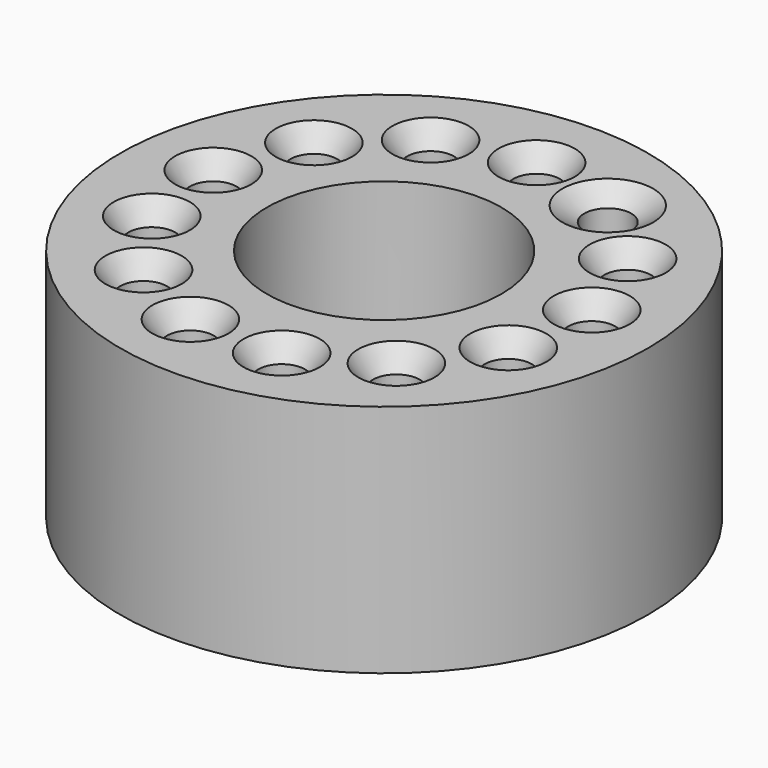
from build123d import *

# Parameters (mm, degrees)
SKETCH_R           = 9
SKETCH_R_2         = 0.8
SKETCH_R_3         = 4
EXTRUDE_DEPTH      = 8
CHAMFER_1_SIZE2    = 0.75
CHAMFER_1_SIZE     = 2
CHAMFER_2_SIZE2    = 0.75
CHAMFER_2_SIZE     = 2
CHAMFER_3_SIZE2    = 0.75
CHAMFER_3_SIZE     = 2
CHAMFER_4_SIZE2    = 0.75
CHAMFER_4_SIZE     = 2
CHAMFER_5_SIZE2    = 0.75
CHAMFER_5_SIZE     = 2
CHAMFER_6_SIZE2    = 0.75
CHAMFER_6_SIZE     = 2
CHAMFER_7_SIZE2    = 0.75
CHAMFER_7_SIZE     = 2
CHAMFER_8_SIZE2    = 0.75
CHAMFER_8_SIZE     = 2
CHAMFER_9_SIZE2    = 0.75
CHAMFER_9_SIZE     = 2
CHAMFER_10_SIZE2   = 0.75
CHAMFER_10_SIZE    = 2
CHAMFER_11_SIZE2   = 0.75
CHAMFER_11_SIZE    = 2
CHAMFER_12_SIZE2   = 0.75
CHAMFER_12_SIZE    = 2
CHAMFER_13_SIZE2   = 0.75
CHAMFER_13_SIZE    = 2
CHAMFER001_1_SIZE2 = 0.75
CHAMFER001_1_SIZE  = 0.5
CHAMFER001_2_SIZE2 = 0.75
CHAMFER001_2_SIZE  = 0.5


with BuildPart() as part:
    # Sketch → Extrude (new body)
    with BuildSketch(Plane.XY):
        Circle(SKETCH_R)
        with Locations((-3.020701, 5.755464)):
            Circle(SKETCH_R_2, mode=Mode.SUBTRACT)
        with Locations((-5.349395, 3.692421)):
            Circle(SKETCH_R_2, mode=Mode.SUBTRACT)
        with Locations((-6.452608, 0.783488)):
            Circle(SKETCH_R_2, mode=Mode.SUBTRACT)
        with Locations((-6.077606, -2.304932)):
            Circle(SKETCH_R_2, mode=Mode.SUBTRACT)
        with Locations((-4.310297, -4.86532)):
            Circle(SKETCH_R_2, mode=Mode.SUBTRACT)
        with Locations((-1.555552, -6.311122)):
            Circle(SKETCH_R_2, mode=Mode.SUBTRACT)
        with Locations((1.555552, -6.311122)):
            Circle(SKETCH_R_2, mode=Mode.SUBTRACT)
        with Locations((4.310297, -4.86532)):
            Circle(SKETCH_R_2, mode=Mode.SUBTRACT)
        with Locations((6.077606, -2.304932)):
            Circle(SKETCH_R_2, mode=Mode.SUBTRACT)
        with Locations((6.452608, 0.783488)):
            Circle(SKETCH_R_2, mode=Mode.SUBTRACT)
        with Locations((5.349395, 3.692421)):
            Circle(SKETCH_R_2, mode=Mode.SUBTRACT)
        with Locations((3.020701, 5.755464)):
            Circle(SKETCH_R_2, mode=Mode.SUBTRACT)
        with Locations((0, 6.5)):
            Circle(SKETCH_R_2, mode=Mode.SUBTRACT)
        Circle(SKETCH_R_3, mode=Mode.SUBTRACT)
    extrude(amount=EXTRUDE_DEPTH)

    # Chamfer 1
    chamfer_1_edges = [part.edges().sort_by_distance(p)[0] for p in [
        (-3.820701, 5.755464, 0),
    ]]
    chamfer_1_side = part.faces().sort_by_distance((-3.820701, 5.755464, 4))[0]
    chamfer(chamfer_1_edges, length=CHAMFER_1_SIZE, length2=CHAMFER_1_SIZE2, reference=chamfer_1_side)

    # Chamfer 2
    chamfer_2_edges = [part.edges().sort_by_distance(p)[0] for p in [
        (-5.110297, -4.86532, 0),
    ]]
    chamfer_2_side = part.faces().sort_by_distance((-5.110297, -4.86532, 4))[0]
    chamfer(chamfer_2_edges, length=CHAMFER_2_SIZE, length2=CHAMFER_2_SIZE2, reference=chamfer_2_side)

    # Chamfer 3
    chamfer_3_edges = [part.edges().sort_by_distance(p)[0] for p in [
        (3.510297, -4.86532, 0),
    ]]
    chamfer_3_side = part.faces().sort_by_distance((3.510297, -4.86532, 4))[0]
    chamfer(chamfer_3_edges, length=CHAMFER_3_SIZE, length2=CHAMFER_3_SIZE2, reference=chamfer_3_side)

    # Chamfer 4
    chamfer_4_edges = [part.edges().sort_by_distance(p)[0] for p in [
        (4.549395, 3.692421, 0),
    ]]
    chamfer_4_side = part.faces().sort_by_distance((4.549395, 3.692421, 4))[0]
    chamfer(chamfer_4_edges, length=CHAMFER_4_SIZE, length2=CHAMFER_4_SIZE2, reference=chamfer_4_side)

    # Chamfer 5
    chamfer_5_edges = [part.edges().sort_by_distance(p)[0] for p in [
        (-6.877606, -2.304932, 0),
    ]]
    chamfer_5_side = part.faces().sort_by_distance((-6.877606, -2.304932, 4))[0]
    chamfer(chamfer_5_edges, length=CHAMFER_5_SIZE, length2=CHAMFER_5_SIZE2, reference=chamfer_5_side)

    # Chamfer 6
    chamfer_6_edges = [part.edges().sort_by_distance(p)[0] for p in [
        (-2.355552, -6.311122, 0),
    ]]
    chamfer_6_side = part.faces().sort_by_distance((-2.355552, -6.311122, 4))[0]
    chamfer(chamfer_6_edges, length=CHAMFER_6_SIZE, length2=CHAMFER_6_SIZE2, reference=chamfer_6_side)

    # Chamfer 7
    chamfer_7_edges = [part.edges().sort_by_distance(p)[0] for p in [
        (5.277606, -2.304932, 0),
    ]]
    chamfer_7_side = part.faces().sort_by_distance((5.277606, -2.304932, 4))[0]
    chamfer(chamfer_7_edges, length=CHAMFER_7_SIZE, length2=CHAMFER_7_SIZE2, reference=chamfer_7_side)

    # Chamfer 8
    chamfer_8_edges = [part.edges().sort_by_distance(p)[0] for p in [
        (-7.252608, 0.783488, 0),
    ]]
    chamfer_8_side = part.faces().sort_by_distance((-7.252608, 0.783488, 4))[0]
    chamfer(chamfer_8_edges, length=CHAMFER_8_SIZE, length2=CHAMFER_8_SIZE2, reference=chamfer_8_side)

    # Chamfer 9
    chamfer_9_edges = [part.edges().sort_by_distance(p)[0] for p in [
        (0.755552, -6.311122, 0),
    ]]
    chamfer_9_side = part.faces().sort_by_distance((0.755552, -6.311122, 4))[0]
    chamfer(chamfer_9_edges, length=CHAMFER_9_SIZE, length2=CHAMFER_9_SIZE2, reference=chamfer_9_side)

    # Chamfer 10
    chamfer_10_edges = [part.edges().sort_by_distance(p)[0] for p in [
        (5.652608, 0.783488, 0),
    ]]
    chamfer_10_side = part.faces().sort_by_distance((5.652608, 0.783488, 4))[0]
    chamfer(chamfer_10_edges, length=CHAMFER_10_SIZE, length2=CHAMFER_10_SIZE2, reference=chamfer_10_side)

    # Chamfer 11
    chamfer_11_edges = [part.edges().sort_by_distance(p)[0] for p in [
        (-0.8, 6.5, 0),
    ]]
    chamfer_11_side = part.faces().sort_by_distance((-0.8, 6.5, 4))[0]
    chamfer(chamfer_11_edges, length=CHAMFER_11_SIZE, length2=CHAMFER_11_SIZE2, reference=chamfer_11_side)

    # Chamfer 12
    chamfer_12_edges = [part.edges().sort_by_distance(p)[0] for p in [
        (-6.149395, 3.692421, 0),
    ]]
    chamfer_12_side = part.faces().sort_by_distance((-6.149395, 3.692421, 4))[0]
    chamfer(chamfer_12_edges, length=CHAMFER_12_SIZE, length2=CHAMFER_12_SIZE2, reference=chamfer_12_side)

    # Chamfer 13
    chamfer_13_edges = [part.edges().sort_by_distance(p)[0] for p in [
        (2.220701, 5.755464, 0),
    ]]
    chamfer_13_side = part.faces().sort_by_distance((2.220701, 5.755464, 4))[0]
    chamfer(chamfer_13_edges, length=CHAMFER_13_SIZE, length2=CHAMFER_13_SIZE2, reference=chamfer_13_side)

    # Chamfer001 1
    chamfer001_1_edges = [part.edges().sort_by_distance(p)[0] for p in [
        (-6.149395, 3.692421, 8),
        (-0.8, 6.5, 8),
        (5.652608, 0.783488, 8),
        (0.755552, -6.311122, 8),
        (-7.252608, 0.783488, 8),
        (5.277606, -2.304932, 8),
        (-2.355552, -6.311122, 8),
        (-6.877606, -2.304932, 8),
        (4.549395, 3.692421, 8),
        (3.510297, -4.86532, 8),
        (-5.110297, -4.86532, 8),
        (-3.820701, 5.755464, 8),
    ]]
    chamfer001_1_side = part.faces().sort_by_distance((-8.745442, 0, 8))[0]
    chamfer(chamfer001_1_edges, length=CHAMFER001_1_SIZE, length2=CHAMFER001_1_SIZE2, reference=chamfer001_1_side)

    # Chamfer001 2
    chamfer001_2_edges = [part.edges().sort_by_distance(p)[0] for p in [
        (2.220701, 5.755464, 8),
    ]]
    chamfer001_2_side = part.faces().sort_by_distance((2.220701, 5.755464, 5))[0]
    chamfer(chamfer001_2_edges, length=CHAMFER001_2_SIZE, length2=CHAMFER001_2_SIZE2, reference=chamfer001_2_side)


solid = part.part
